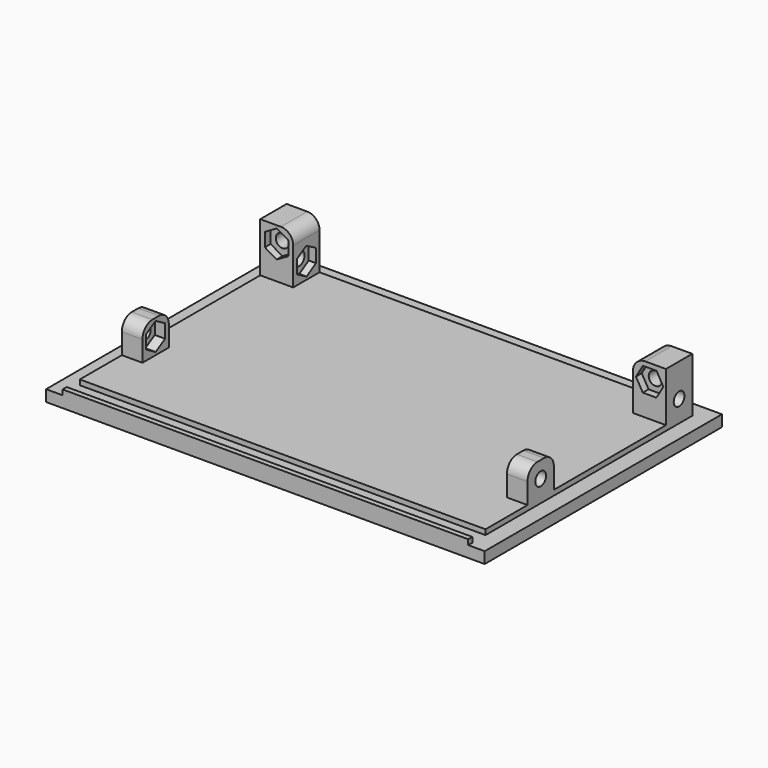
from build123d import *

# Parameters (mm, degrees)
F0_W      = 106.5
F0_H      = 72
F1_DEPTH  = 2.75
F2_W      = 98.5
F2_H      = 62.75
F2_H_2    = 1.25
F3_DEPTH  = 1.25
F4_W      = 8
F4_H      = 8
F5_DEPTH  = 12
F6_W      = 5
F6_H      = 8
F7_DEPTH  = 8
F11_D     = 3.25
F11_DEPTH = 8
F12_D     = 3.25
F12_DEPTH = 8
F13_D     = 3.25
F13_DEPTH = 8
F15_DEPTH = 2.5
F17_DEPTH = 1.75
F19_DEPTH = 1.75
F21_DEPTH = 2.5
F23_DEPTH = 1.75
F25_DEPTH = 1.75
F26_R     = 3


with BuildPart() as f1:
    # F0 (on Top) → F1 (new body)
    with BuildSketch(Plane.XY):
        Rectangle(F0_W, F0_H)
    extrude(amount=F1_DEPTH)

    # F2 (on face) → F3 (join)
    with BuildSketch(Plane.XY.offset(2.75)):
        with Locations((0, 0.625)):
            Rectangle(F2_W, F2_H)
        with Locations((0, -35.375)):
            Rectangle(F2_W, F2_H_2)
    extrude(amount=F3_DEPTH)

    # F4 (on face) → F5 (join)
    with BuildSketch(Plane.XY.offset(4)):
        with Locations((-45.25, 28)):
            Rectangle(F4_W, F4_H)
        with Locations((45.25, 28)):
            Rectangle(F4_W, F4_H)
    extrude(amount=F5_DEPTH)

    # F6 (on face) → F7 (join)
    with BuildSketch(Plane.XY.offset(4)):
        with Locations((-46.75, -14)):
            Rectangle(F6_W, F6_H)
        with Locations((46.75, -14)):
            Rectangle(F6_W, F6_H)
    extrude(amount=F7_DEPTH)

    # F11
    with Locations(Plane(origin=(0, 32, 0), x_dir=(-1, 0, 0), z_dir=(0, 1, 0))):
        with Locations((-45.303469, 12), (45.25, 12)):
            Hole(F11_D / 2, depth=F11_DEPTH)

    # F12
    with Locations(Plane(origin=(-49.25, 0, 0), x_dir=(0, -1, 0), z_dir=(-1, 0, 0))):
        with Locations((-28, 8), (14, 8)):
            Hole(F12_D / 2, depth=F12_DEPTH)

    # F13
    with Locations(Plane.YZ.offset(49.25)):
        with Locations((-14, 8), (28, 8)):
            Hole(F13_D / 2, depth=F13_DEPTH)

    # F14 (on face) → F15 (cut)
    with BuildSketch(Plane.YZ.offset(-44.25)):
        Polygon((-11.125, 6.340118), (-11.125, 9.659882), (-14, 11.319764), (-16.875, 9.659882), (-16.875, 6.340118), (-14, 4.680236), align=None)
    extrude(amount=-F15_DEPTH, mode=Mode.SUBTRACT)

    # F16 (on face) → F17 (cut)
    with BuildSketch(Plane.YZ.offset(-41.25)):
        Polygon((30.844677, 9.711329), (27.940285, 11.319227), (25.095607, 9.607898), (25.155323, 6.288671), (28.059715, 4.680773), (30.904393, 6.392102), align=None)
    extrude(amount=-F17_DEPTH, mode=Mode.SUBTRACT)

    # F18 (on face) → F19 (cut)
    with BuildSketch(Plane(origin=(41.25, 0, 0), x_dir=(0, -1, 0), z_dir=(-1, 0, 0))):
        Polygon((-25.109566, 9.632858), (-27.968879, 11.319618), (-30.859313, 9.68676), (-30.890434, 6.367142), (-28.031121, 4.680382), (-25.140687, 6.31324), align=None)
    extrude(amount=-F19_DEPTH, mode=Mode.SUBTRACT)

    # F20 (on face) → F21 (cut)
    with BuildSketch(Plane(origin=(44.25, 0, 0), x_dir=(0, -1, 0), z_dir=(-1, 0, 0))):
        Polygon((13.950525, 11.319395), (11.100582, 9.616851), (11.150057, 6.297455), (14.049475, 4.680605), (16.899418, 6.383149), (16.849943, 9.702545), align=None)
    extrude(amount=-F21_DEPTH, mode=Mode.SUBTRACT)

    # F22 (on face) → F23 (cut)
    with BuildSketch(Plane.XZ.offset(-24)):
        Polygon((-42.375, 10.340118), (-42.375, 13.659882), (-45.25, 15.319764), (-48.125, 13.659882), (-48.125, 10.340118), (-45.25, 8.680236), align=None)
    extrude(amount=-F23_DEPTH, mode=Mode.SUBTRACT)

    # F24 (on face) → F25 (cut)
    with BuildSketch(Plane.XZ.offset(-24)):
        Polygon((41.983721, 12.010152), (43.634803, 9.130089), (46.954552, 9.119938), (48.623218, 11.989848), (46.972135, 14.869911), (43.652387, 14.880062), align=None)
    extrude(amount=-F25_DEPTH, mode=Mode.SUBTRACT)

    # F26
    f26_edges = [f1.edges().sort_by_distance(p)[0] for p in [
        (46.75, -18, 12),
        (46.75, -10, 12),
        (-46.75, -18, 12),
        (-46.75, -10, 12),
        (-41.25, 28, 16),
        (41.25, 28, 16),
    ]]
    fillet(f26_edges, radius=F26_R)


solid = f1.part
